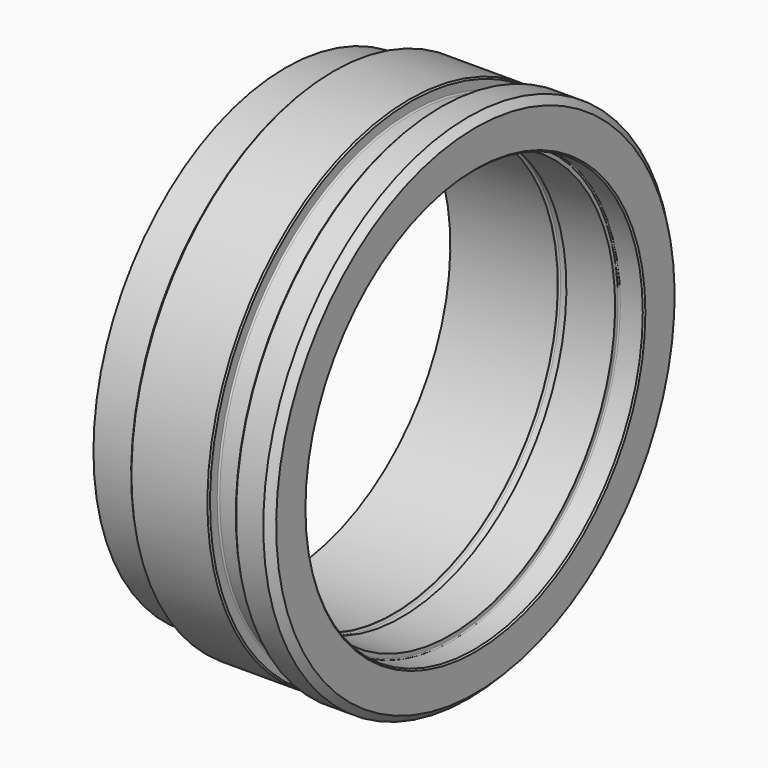
from build123d import *

# Parameters (mm, degrees)
F2_SIZE  = 2
F3_SIZE  = 10
F4_SIZE  = 2
F5_R     = 316
F5_R_2   = 300
F6_DEPTH = 9.5
F7_R     = 2
F8_R     = 1


with BuildPart() as f1:
    # F0 (on Front) → F1 (revolve)
    with BuildSketch(Plane.XZ):
        with BuildLine():
            Line((0, 335), (0, 287.5))
            Line((0, 287.5), (150, 287.5))
            Line((150, 287.5), (150, 288.9))
            ThreePointArc((150, 288.9), (150.468629, 290.031371), (151.6, 290.5))
            Line((151.6, 290.5), (160.4, 290.5))
            ThreePointArc((160.4, 290.5), (161.531371, 290.031371), (162, 288.9))
            Line((162, 288.9), (162, 287.5))
            Line((162, 287.5), (230, 287.5))
            Line((230, 287.5), (230, 292.9))
            ThreePointArc((230, 292.9), (230.468629, 294.031371), (231.6, 294.5))
            Line((231.6, 294.5), (265, 294.5))
            Line((265, 294.5), (265, 357.5))
            Line((265, 357.5), (215, 357.5))
            Line((215, 357.5), (215, 338))
            ThreePointArc((215, 338), (214.414214, 336.585786), (213, 336))
            Line((213, 336), (177, 336))
            ThreePointArc((177, 336), (175.585786, 336.585786), (175, 338))
            Line((175, 338), (175, 352.5))
            Line((175, 352.5), (65, 352.5))
            Line((65, 352.5), (65, 333.75))
            ThreePointArc((65, 333.75), (64.531371, 332.618629), (63.4, 332.15))
            Line((63.4, 332.15), (57.662742, 332.15))
            ThreePointArc((57.662742, 332.15), (57.050448, 332.271793), (56.531371, 332.618629))
            Line((56.531371, 332.618629), (54.15, 335))
            Line((54.15, 335), (0, 335))
        make_face()
    revolve(axis=Axis((160.925373, 0, 0), (1, 0, 0)))

    # F2
    f2_edges = [f1.edges().sort_by_distance(p)[0] for p in [
        (175, 0, -352.5),
        (215, 0, -357.5),
        (65, 0, -352.5),
    ]]
    chamfer(f2_edges, length=F2_SIZE)

    # F3
    f3_edges = [f1.edges().sort_by_distance(p)[0] for p in [
        (265, 0, -357.5),
    ]]
    chamfer(f3_edges, length=F3_SIZE)

    # F4
    f4_edges = [f1.edges().sort_by_distance(p)[0] for p in [
        (265, 0, -294.5),
    ]]
    chamfer(f4_edges, length=F4_SIZE)

    # F5 (on Right) → F6 (cut)
    with BuildSketch(Plane.YZ):
        Circle(F5_R)
        Circle(F5_R_2, mode=Mode.SUBTRACT)
    extrude(amount=F6_DEPTH, mode=Mode.SUBTRACT)

    # F7
    f7_edges = [f1.edges().sort_by_distance(p)[0] for p in [
        (9.5, -300, 0),
        (9.5, -316, 0),
    ]]
    fillet(f7_edges, radius=F7_R)

    # F8
    f8_edges = [f1.edges().sort_by_distance(p)[0] for p in [
        (0, -316, 0),
        (0, -300, 0),
    ]]
    fillet(f8_edges, radius=F8_R)


solid = f1.part
